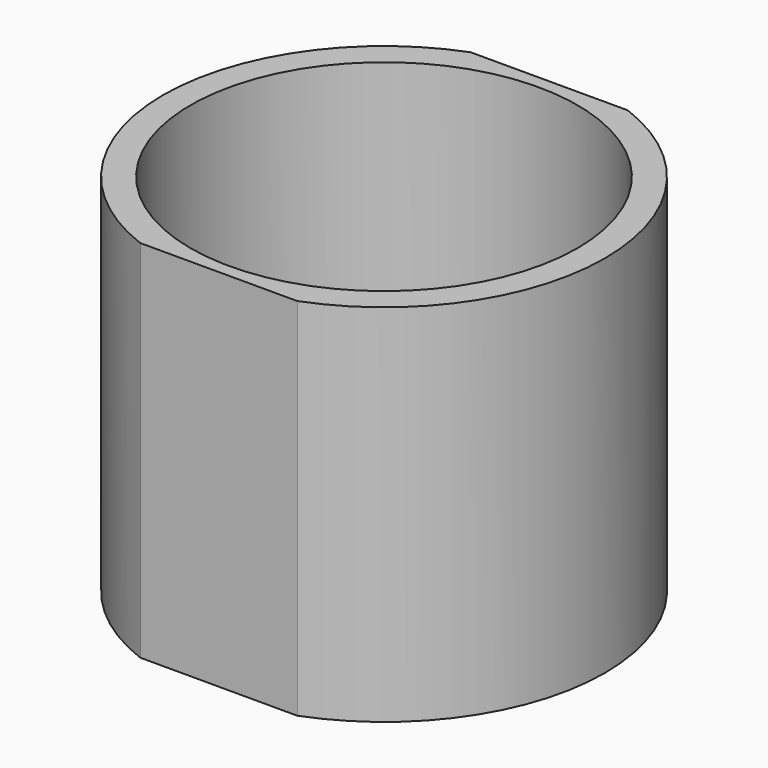
from build123d import *

# Parameters (mm, degrees)
F1_DEPTH = 38
F2_R     = 20.15
F3_DEPTH = 26


with BuildPart() as f1:
    # F0 (on Top) → F1 (new body)
    with BuildSketch(Plane.XY):
        with BuildLine():
            Line((8.170067, 21.5), (-8.170067, 21.5))
            ThreePointArc((-8.170067, 21.5), (-23, 0), (-8.170067, -21.5))
            Line((-8.170067, -21.5), (8.170067, -21.5))
            ThreePointArc((8.170067, -21.5), (23, 0), (8.170067, 21.5))
        make_face()
    extrude(amount=F1_DEPTH)

    # F2 (on face) → F3 (cut)
    with BuildSketch(Plane.XY.offset(38)):
        Circle(F2_R)
    extrude(amount=-F3_DEPTH, mode=Mode.SUBTRACT)


solid = f1.part
